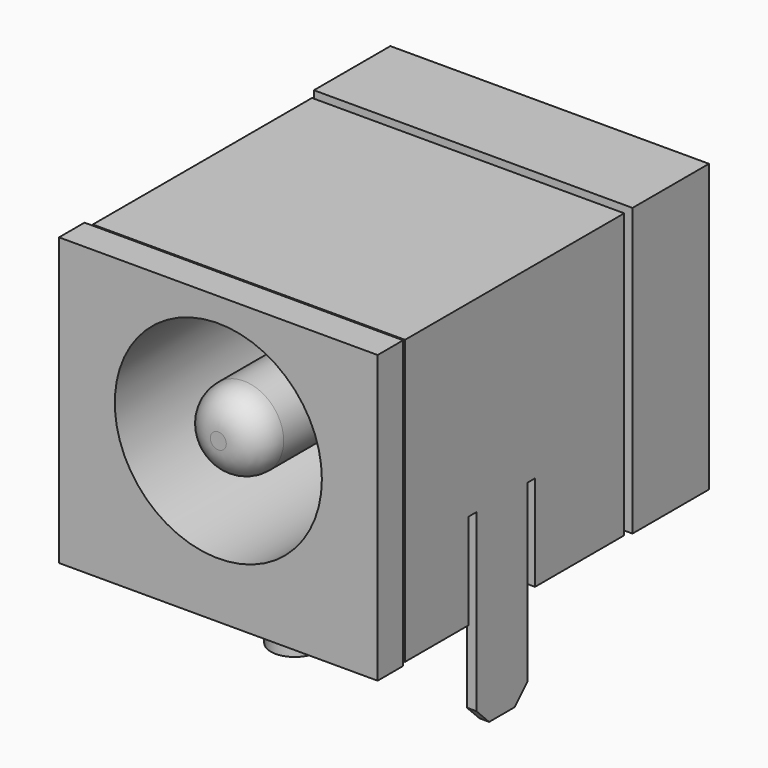
from build123d import *

# Parameters (mm, degrees)
SKETCH002_R     = 1.25
PAD001_DEPTH    = 8.85
FILLET_R        = 1
SKETCH003_W     = 2.5
SKETCH003_H     = 3
PAD002_DEPTH    = 0.3
CHAMFER_SIZE    = 0.7
CHAMFER001_SIZE = 0.7
SKETCH004_W     = 1.8
SKETCH004_H     = 3
PAD003_DEPTH    = 0.3
CHAMFER002_SIZE = 0.5
CHAMFER003_SIZE = 0.5
PAD004_DEPTH    = 0.3
CHAMFER004_SIZE = 0.5
CHAMFER005_SIZE = 0.5
SKETCH_W        = 10
SKETCH_H        = 13
PAD_DEPTH       = 9
SKETCH005_R     = 3.25
POCKET_DEPTH    = 8.85
SKETCH008_W     = 9
SKETCH008_H     = 9
POCKET001_DEPTH = 0.5
SKETCH009_W     = 9
SKETCH009_H     = 9
POCKET002_DEPTH = 0.5
SKETCH010_W     = 10
SKETCH010_H     = 9
POCKET003_DEPTH = 0.5
SKETCH011_W     = 9.8
SKETCH011_H     = 8.6
PAD006_DEPTH    = 0.3
SKETCH007_R     = 0.75
PAD005_DEPTH    = 1.8


with BuildPart() as centralpin:
    # Sketch002 → Pad001 (new body)
    with BuildSketch(Plane.XZ.offset(12)):
        with Locations((0, 5)):
            Circle(SKETCH002_R)
    extrude(amount=-PAD001_DEPTH)

    # Fillet
    fillet_edges = [centralpin.edges().sort_by_distance(p)[0] for p in [
        (-1.25, -12, 5),
    ]]
    fillet(fillet_edges, radius=FILLET_R)


with BuildPart() as pin1:
    # Sketch003 → Pad002 (new body)
    with BuildSketch(Plane.XZ.offset(0.15)):
        with Locations((0, -1.5)):
            Rectangle(SKETCH003_W, SKETCH003_H)
    extrude(amount=-PAD002_DEPTH)

    # Chamfer
    chamfer_edges = [pin1.edges().sort_by_distance(p)[0] for p in [
        (1.25, 0, -3),
    ]]
    chamfer(chamfer_edges, length=CHAMFER_SIZE)

    # Chamfer001
    chamfer001_edges = [pin1.edges().sort_by_distance(p)[0] for p in [
        (-1.25, 0, -3),
    ]]
    chamfer(chamfer001_edges, length=CHAMFER001_SIZE)


with BuildPart() as pin2:
    # Sketch004 → Pad003 (new body)
    with BuildSketch(Plane.XZ.offset(6.15)):
        with Locations((0, -1.5)):
            Rectangle(SKETCH004_W, SKETCH004_H)
    extrude(amount=-PAD003_DEPTH)

    # Chamfer002
    chamfer002_edges = [pin2.edges().sort_by_distance(p)[0] for p in [
        (0.9, -6, -3),
    ]]
    chamfer(chamfer002_edges, length=CHAMFER002_SIZE)

    # Chamfer003
    chamfer003_edges = [pin2.edges().sort_by_distance(p)[0] for p in [
        (-0.9, -6, -3),
    ]]
    chamfer(chamfer003_edges, length=CHAMFER003_SIZE)


with BuildPart() as pin3:
    # Sketch006 → Pad004 (new body)
    with BuildSketch(Plane.YZ.offset(4.9)):
        Polygon((-8, -3), (-6, -3), (-6, 0), (-6, 3), (-5.7, 3), (-5.7, 0), (-2.2, 0), (-2.2, 8.9), (-10.8, 8.9), (-10.8, 0), (-8.3, 0), (-8.3, 3), (-8, 3), (-8, 0), align=None)
    extrude(amount=-PAD004_DEPTH)

    # Chamfer004
    chamfer004_edges = [pin3.edges().sort_by_distance(p)[0] for p in [
        (4.75, -8, -3),
    ]]
    chamfer(chamfer004_edges, length=CHAMFER004_SIZE)

    # Chamfer005
    chamfer005_edges = [pin3.edges().sort_by_distance(p)[0] for p in [
        (4.75, -6, -3),
    ]]
    chamfer(chamfer005_edges, length=CHAMFER005_SIZE)


with BuildPart() as pins3:
    # Part__Mirroring: instance of Pin3
    add(pin3.part.mirror(Plane(origin=(0, -7, -1.5), x_dir=(0, -1, 0), z_dir=(1, 0, 0))))


with BuildPart() as body:
    # Sketch → Pad (new body)
    with BuildSketch(Plane.XY):
        with Locations((0, -5.5)):
            Rectangle(SKETCH_W, SKETCH_H)
    extrude(amount=PAD_DEPTH)

    # Sketch005 → Pocket (cut)
    with BuildSketch(Plane.XZ.offset(12)):
        with Locations((0, 5)):
            Circle(SKETCH005_R)
    extrude(amount=-POCKET_DEPTH, mode=Mode.SUBTRACT)

    # Sketch008 → Pocket001 (cut)
    with BuildSketch(Plane.YZ.offset(5)):
        with Locations((-6.5, 4.5)):
            Rectangle(SKETCH008_W, SKETCH008_H)
    extrude(amount=-POCKET001_DEPTH, mode=Mode.SUBTRACT)

    # Sketch009 → Pocket002 (cut)
    with BuildSketch(Plane(origin=(-5, 0, 0), x_dir=(0, -1, 0), z_dir=(-1, 0, 0))):
        with Locations((6.5, 4.5)):
            Rectangle(SKETCH009_W, SKETCH009_H)
    extrude(amount=-POCKET002_DEPTH, mode=Mode.SUBTRACT)

    # Sketch010 → Pocket003 (cut)
    with BuildSketch(Plane.XY.offset(9)):
        with Locations((0, -6.5)):
            Rectangle(SKETCH010_W, SKETCH010_H)
    extrude(amount=-POCKET003_DEPTH, mode=Mode.SUBTRACT)


with BuildPart() as shieldtop:
    # Sketch011 → Pad006 (new body)
    with BuildSketch(Plane.XY.offset(8.6)):
        with Locations((0, -6.5)):
            Rectangle(SKETCH011_W, SKETCH011_H)
    extrude(amount=PAD006_DEPTH)


with BuildPart() as obj1:
    # Sketch007 → Pad005 (new body)
    with BuildSketch(Plane.XY):
        with Locations((0, -9)):
            Circle(SKETCH007_R)
    extrude(amount=-PAD005_DEPTH)

    # Fusion: union CentralPin, Pin1, Pin2, Pins3, Pin3, Body, ShieldTop
    add(centralpin.part)
    add(pin1.part)
    add(pin2.part)
    add(pins3.part)
    add(pin3.part)
    add(body.part)
    add(shieldtop.part)


solid = obj1.part
